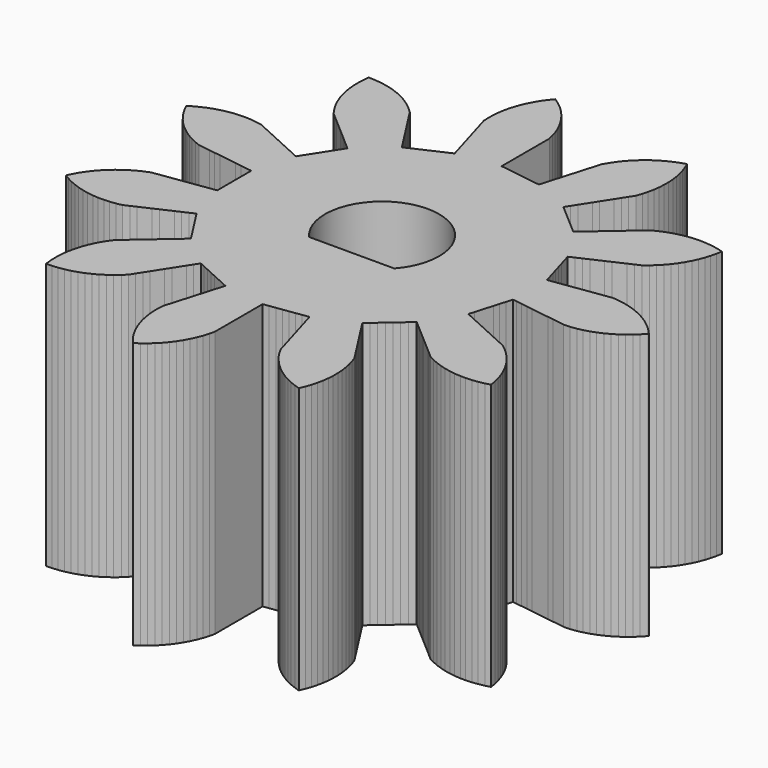
from build123d import *

# Parameters (mm, degrees)
F1_DEPTH = 7


with BuildPart() as f1:
    # F0 (on Top) → F1 (new body)
    with BuildSketch(Plane.XY):
        Polygon((2.781297, -0.574839), (2.785894, -0.559184), (2.889548, -0.574087), (3.045029, -0.596442), (3.200509, -0.618797), (3.35599, -0.641151), (3.511471, -0.663506), (3.666952, -0.685861), (3.822433, -0.708216), (3.977913, -0.73057), (4.133394, -0.752925), (4.288875, -0.77528), (4.460654, -0.772542), (4.616273, -0.748697), (4.756618, -0.719001), (4.90763, -0.674487), (5.04272, -0.626225), (5.186392, -0.561848), (5.313783, -0.495894), (5.447516, -0.412818), (5.564904, -0.330364), (5.686278, -0.230093), (5.791538, -0.132631), (5.898358, -0.016978), (5.91404, 0), (5.80722, 0.115653), (5.704096, 0.215372), (5.582722, 0.315644), (5.467148, 0.400622), (5.333416, 0.483698), (5.207483, 0.552397), (5.063812, 0.616774), (4.929799, 0.667952), (4.778787, 0.712466), (4.639119, 0.745196), (4.483499, 0.769041), (4.340702, 0.782732), (4.185221, 0.760377), (4.02974, 0.738022), (3.87426, 0.715667), (3.718779, 0.693313), (3.563298, 0.670958), (3.407817, 0.648603), (3.252336, 0.626248), (3.096856, 0.603894), (2.941375, 0.581539), (2.785894, 0.559184), (2.741539, 0.710243), (2.697184, 0.861301), (2.65283, 1.01236), (2.608475, 1.163419), (2.56412, 1.314477), (2.519765, 1.465536), (2.47541, 1.616595), (2.470813, 1.63225), (2.613698, 1.697503), (2.756583, 1.762757), (2.899467, 1.82801), (3.042352, 1.893263), (3.185237, 1.958516), (3.328121, 2.02377), (3.471006, 2.089023), (3.613891, 2.154276), (3.756775, 2.219529), (3.89966, 2.284783), (4.02312, 2.382474), (4.130411, 2.477696), (4.239644, 2.591073), (4.333185, 2.699831), (4.426215, 2.826842), (4.504315, 2.94717), (4.579458, 3.085516), (4.640703, 3.215237), (4.6966, 3.362415), (4.739883, 3.499182), (4.775523, 3.652531), (4.800059, 3.793869), (4.64767, 3.833411), (4.507004, 3.861548), (4.350687, 3.880282), (4.207518, 3.889286), (4.147325, 3.889984), (3.990029, 3.883334), (3.847276, 3.869195), (3.692295, 3.841496), (3.552731, 3.808328), (3.40287, 3.760081), (3.269018, 3.708483), (3.126988, 3.640561), (2.998181, 3.550036), (2.87757, 3.448848), (2.758332, 3.346044), (2.639311, 3.242991), (2.520323, 3.139899), (2.40134, 3.036801), (2.282358, 2.933703), (2.163375, 2.830604), (2.044393, 2.727506), (1.925411, 2.624407), (1.866178, 2.573081), (1.747196, 2.67618), (1.628214, 2.779278), (1.509232, 2.882377), (1.390249, 2.985476), (1.271267, 3.088574), (1.152285, 3.191673), (1.033303, 3.294772), (1.020972, 3.305456), (1.105896, 3.4376), (1.190819, 3.569744), (1.275743, 3.701888), (1.360667, 3.834032), (1.44559, 3.966175), (1.530514, 4.098319), (1.615438, 4.230463), (1.700361, 4.362607), (1.785285, 4.494751), (1.870208, 4.626894), (1.921254, 4.775826), (1.960032, 4.913937), (1.990628, 5.068371), (2.010521, 5.210437), (2.020115, 5.367581), (2.020763, 5.511031), (2.009182, 5.668041), (1.990572, 5.81028), (1.958025, 5.964315), (1.920495, 6.102771), (1.86757, 6.251045), (1.811799, 6.383211), (1.662223, 6.334089), (1.528676, 6.281709), (1.387045, 6.212957), (1.261735, 6.143129), (1.130612, 6.055992), (1.015807, 5.969979), (0.897564, 5.866034), (0.79534, 5.765392), (0.692116, 5.646518), (0.604324, 5.533068), (0.517986, 5.401417), (0.446213, 5.277211), (0.401959, 5.126495), (0.357704, 4.975778), (0.31345, 4.825061), (0.269195, 4.674344), (0.224941, 4.523627), (0.180686, 4.372911), (0.136432, 4.222194), (0.092177, 4.071477), (0.047923, 3.92076), (0.003669, 3.770043), (-0.152165, 3.792449), (-0.307998, 3.814854), (-0.463832, 3.83726), (-0.619665, 3.859665), (-0.775499, 3.882071), (-0.931332, 3.904476), (-1.087166, 3.926882), (-1.103316, 3.929204), (-1.103316, 4.086283), (-1.103316, 4.243363), (-1.103316, 4.400443), (-1.103316, 4.557522), (-1.103316, 4.714602), (-1.103316, 4.871681), (-1.103316, 5.028761), (-1.103316, 5.185841), (-1.103316, 5.34292), (-1.103316, 5.5), (-1.140892, 5.652886), (-1.182939, 5.790038), (-1.240693, 5.936498), (-1.300765, 6.066766), (-1.377651, 6.204151), (-1.454662, 6.325179), (-1.54929, 6.451002), (-1.641846, 6.560601), (-1.752504, 6.672587), (-1.858932, 6.768773), (-1.983617, 6.864896), (-2.10199, 6.945929), (-2.201264, 6.823738), (-2.285292, 6.707472), (-2.36727, 6.573063), (-2.434935, 6.446572), (-2.498133, 6.302378), (-2.548211, 6.16795), (-2.591486, 6.016579), (-2.623071, 5.876647), (-2.645641, 5.720837), (-2.658161, 5.577933), (-2.659616, 5.420503), (-2.652845, 5.277211), (-2.608591, 5.126495), (-2.564336, 4.975778), (-2.520082, 4.825061), (-2.475827, 4.674344), (-2.431573, 4.523627), (-2.387318, 4.372911), (-2.343064, 4.222194), (-2.298809, 4.071477), (-2.254555, 3.92076), (-2.210301, 3.770043), (-2.353509, 3.704642), (-2.496718, 3.639241), (-2.639927, 3.57384), (-2.783136, 3.508438), (-2.926345, 3.443037), (-3.069553, 3.377636), (-3.212762, 3.312235), (-3.227604, 3.305456), (-3.312528, 3.4376), (-3.397451, 3.569744), (-3.482375, 3.701888), (-3.567299, 3.834032), (-3.652222, 3.966175), (-3.737146, 4.098319), (-3.82207, 4.230463), (-3.906993, 4.362607), (-3.991917, 4.494751), (-4.07684, 4.626894), (-4.191108, 4.735195), (-4.30063, 4.827842), (-4.428398, 4.919828), (-4.549362, 4.99694), (-4.688319, 5.070947), (-4.818537, 5.131127), (-4.966169, 5.185817), (-5.103285, 5.227977), (-5.256921, 5.26236), (-5.398455, 5.285738), (-5.555315, 5.299191), (-5.698707, 5.303364), (-5.716159, 5.146898), (-5.72399, 5.00366), (-5.720288, 4.846267), (-5.708825, 4.703274), (-5.684033, 4.547802), (-5.653485, 4.407641), (-5.608053, 4.256903), (-5.55897, 4.122109), (-5.49372, 3.978831), (-5.426993, 3.851843), (-5.343105, 3.718618), (-5.259939, 3.601734), (-5.141226, 3.498869), (-5.022513, 3.396003), (-4.9038, 3.293138), (-4.785087, 3.190273), (-4.666374, 3.087408), (-4.547661, 2.984542), (-4.428949, 2.881677), (-4.310236, 2.778812), (-4.191523, 2.675946), (-4.07281, 2.573081), (-4.157926, 2.440638), (-4.243043, 2.308194), (-4.328159, 2.175751), (-4.413275, 2.043307), (-4.498392, 1.910863), (-4.583508, 1.77842), (-4.668624, 1.645976), (-4.677445, 1.63225), (-4.82033, 1.697503), (-4.963215, 1.762757), (-5.106099, 1.82801), (-5.248984, 1.893263), (-5.391869, 1.958516), (-5.534753, 2.02377), (-5.677638, 2.089023), (-5.820523, 2.154276), (-5.963407, 2.219529), (-6.106292, 2.284783), (-6.260972, 2.314113), (-6.403196, 2.332841), (-6.560413, 2.341148), (-6.583493, 2.342367), (-6.740867, 2.337963), (-6.883808, 2.325864), (-7.039168, 2.30038), (-7.179192, 2.269208), (-7.329726, 2.223105), (-7.4643, 2.173423), (-7.607286, 2.107535), (-7.733975, 2.040242), (-7.83642, 1.977018), (-7.76651, 1.835955), (-7.695657, 1.711221), (-7.60745, 1.580816), (-7.520499, 1.46672), (-7.415588, 1.349332), (-7.314112, 1.247937), (-7.194397, 1.14569), (-7.080231, 1.05883), (-6.947878, 0.973574), (-6.823088, 0.902821), (-6.68049, 0.836098), (-6.547334, 0.782732), (-6.391853, 0.760377), (-6.236372, 0.738022), (-6.080892, 0.715667), (-5.925411, 0.693313), (-5.76993, 0.670958), (-5.614449, 0.648603), (-5.458968, 0.626248), (-5.303488, 0.603894), (-5.148007, 0.581539), (-4.992526, 0.559184), (-4.992526, 0.401748), (-4.992526, 0.244312), (-4.992526, 0.086876), (-4.992526, -0.07056), (-4.992526, -0.227996), (-4.992526, -0.385432), (-4.992526, -0.542868), (-4.992526, -0.559184), (-5.148007, -0.581539), (-5.303488, -0.603894), (-5.458968, -0.626248), (-5.614449, -0.648603), (-5.76993, -0.670958), (-5.925411, -0.693313), (-6.080892, -0.715667), (-6.236372, -0.738022), (-6.391853, -0.760377), (-6.547334, -0.782732), (-6.693316, -0.841684), (-6.823088, -0.902821), (-6.959838, -0.98083), (-7.080231, -1.05883), (-7.205275, -1.154486), (-7.314112, -1.247937), (-7.425188, -1.359508), (-7.520499, -1.46672), (-7.615597, -1.592189), (-7.695657, -1.711221), (-7.773057, -1.848318), (-7.83642, -1.977018), (-7.701344, -2.057891), (-7.574303, -2.124518), (-7.429595, -2.186533), (-7.294762, -2.235508), (-7.143041, -2.277542), (-7.002856, -2.307979), (-6.846866, -2.329271), (-6.703864, -2.34062), (-6.546428, -2.340786), (-6.403196, -2.332841), (-6.247162, -2.311878), (-6.106292, -2.284783), (-5.963407, -2.219529), (-5.820523, -2.154276), (-5.677638, -2.089023), (-5.534753, -2.02377), (-5.391869, -1.958516), (-5.248984, -1.893263), (-5.106099, -1.82801), (-4.963215, -1.762757), (-4.82033, -1.697503), (-4.677445, -1.63225), (-4.592329, -1.764694), (-4.507213, -1.897137), (-4.422096, -2.029581), (-4.33698, -2.162024), (-4.251864, -2.294468), (-4.166748, -2.426912), (-4.081631, -2.559355), (-4.07281, -2.573081), (-4.191523, -2.675946), (-4.310236, -2.778812), (-4.428949, -2.881677), (-4.547661, -2.984542), (-4.666374, -3.087408), (-4.785087, -3.190273), (-4.9038, -3.293138), (-5.022513, -3.396003), (-5.141226, -3.498869), (-5.259939, -3.601734), (-5.350875, -3.730251), (-5.426993, -3.851843), (-5.499859, -3.991402), (-5.55897, -4.122109), (-5.612449, -4.270183), (-5.653485, -4.407641), (-5.686607, -4.561553), (-5.708825, -4.703274), (-5.720993, -4.860239), (-5.72399, -5.00366), (-5.714983, -5.160838), (-5.698707, -5.303364), (-5.54135, -5.298371), (-5.398455, -5.285738), (-5.243192, -5.259673), (-5.103285, -5.227977), (-4.952924, -5.181312), (-4.818537, -5.131127), (-4.675799, -5.064705), (-4.549362, -4.99694), (-4.416828, -4.911963), (-4.30063, -4.827842), (-4.180699, -4.725848), (-4.07684, -4.626894), (-3.991917, -4.494751), (-3.906993, -4.362607), (-3.82207, -4.230463), (-3.737146, -4.098319), (-3.652222, -3.966175), (-3.567299, -3.834032), (-3.482375, -3.701888), (-3.397451, -3.569744), (-3.312528, -3.4376), (-3.227604, -3.305456), (-3.084395, -3.370858), (-2.941186, -3.436259), (-2.797978, -3.50166), (-2.654769, -3.567062), (-2.51156, -3.632463), (-2.368351, -3.697864), (-2.225142, -3.763265), (-2.210301, -3.770043), (-2.254555, -3.92076), (-2.298809, -4.071477), (-2.343064, -4.222194), (-2.387318, -4.372911), (-2.431573, -4.523627), (-2.475827, -4.674344), (-2.520082, -4.825061), (-2.564336, -4.975778), (-2.608591, -5.126495), (-2.652845, -5.277211), (-2.659864, -5.434491), (-2.658161, -5.577933), (-2.644009, -5.734731), (-2.623071, -5.876647), (-2.588004, -6.030128), (-2.548211, -6.16795), (-2.492864, -6.315337), (-2.434935, -6.446572), (-2.360309, -6.585198), (-2.285292, -6.707472), (-2.192738, -6.834829), (-2.10199, -6.945929), (-1.972312, -6.856656), (-1.858932, -6.768773), (-1.742407, -6.662905), (-1.641846, -6.560601), (-1.540584, -6.440052), (-1.454662, -6.325179), (-1.370493, -6.192131), (-1.300765, -6.066766), (-1.235212, -5.923626), (-1.182939, -5.790038), (-1.137189, -5.639396), (-1.103316, -5.5), (-1.103316, -5.34292), (-1.103316, -5.185841), (-1.103316, -5.028761), (-1.103316, -4.871681), (-1.103316, -4.714602), (-1.103316, -4.557522), (-1.103316, -4.400443), (-1.103316, -4.243363), (-1.103316, -4.086283), (-1.103316, -3.929204), (-0.947483, -3.906798), (-0.791649, -3.884393), (-0.635816, -3.861987), (-0.479982, -3.839582), (-0.324149, -3.817176), (-0.168315, -3.794771), (-0.012482, -3.772365), (0.003669, -3.770043), (0.047923, -3.92076), (0.092177, -4.071477), (0.136432, -4.222194), (0.180686, -4.372911), (0.224941, -4.523627), (0.269195, -4.674344), (0.31345, -4.825061), (0.357704, -4.975778), (0.401959, -5.126495), (0.446213, -5.277211), (0.52534, -5.413318), (0.604324, -5.533068), (0.701001, -5.657324), (0.79534, -5.765392), (0.907818, -5.87555), (1.015807, -5.969979), (1.142051, -6.064046), (1.261735, -6.143129), (1.399461, -6.219403), (1.528676, -6.281709), (1.675391, -6.33881), (1.811799, -6.383211), (1.872626, -6.238001), (1.920495, -6.102771), (1.961284, -5.950711), (1.990572, -5.81028), (2.010586, -5.654122), (2.020763, -5.511031), (2.019639, -5.353599), (2.010521, -5.210437), (1.98828, -5.05458), (1.960032, -4.913937), (1.917076, -4.762475), (1.870208, -4.626894), (1.785285, -4.494751), (1.700361, -4.362607), (1.615438, -4.230463), (1.530514, -4.098319), (1.44559, -3.966175), (1.360667, -3.834032), (1.275743, -3.701888), (1.190819, -3.569744), (1.105896, -3.4376), (1.020972, -3.305456), (1.139954, -3.202358), (1.258936, -3.099259), (1.377918, -2.996161), (1.496901, -2.893062), (1.615883, -2.789963), (1.734865, -2.686865), (1.853847, -2.583766), (1.866178, -2.573081), (1.984891, -2.675946), (2.103604, -2.778812), (2.222317, -2.881677), (2.341029, -2.984542), (2.459742, -3.087408), (2.578455, -3.190273), (2.697168, -3.293138), (2.815881, -3.396003), (2.934594, -3.498869), (3.053307, -3.601734), (3.193457, -3.673455), (3.324644, -3.731493), (3.473152, -3.783757), (3.610941, -3.823665), (3.76512, -3.855526), (3.907018, -3.876582), (4.064077, -3.887463), (4.207518, -3.889286), (4.364617, -3.878991), (4.507004, -3.861548), (4.661301, -3.830264), (4.800059, -3.793869), (4.772724, -3.638824), (4.739883, -3.499182), (4.691987, -3.349208), (4.640703, -3.215237), (4.573114, -3.073047), (4.504315, -2.94717), (4.418255, -2.815337), (4.333185, -2.699831), (4.230212, -2.58074), (4.130411, -2.477696), (4.012387, -2.373502), (3.89966, -2.284783), (3.756775, -2.219529), (3.613891, -2.154276), (3.471006, -2.089023), (3.328121, -2.02377), (3.185237, -1.958516), (3.042352, -1.893263), (2.899467, -1.82801), (2.756583, -1.762757), (2.613698, -1.697503), (2.470813, -1.63225), (2.515168, -1.481192), (2.559523, -1.330133), (2.603878, -1.179074), (2.648233, -1.028015), (2.692588, -0.876957), (2.736942, -0.725898), align=None)
        with BuildLine():
            ThreePointArc((-2.2213499887, -1), (-1.6385491347, 1.4012585384), (0.396684, 0))
            ThreePointArc((0.396684, 0), (0.2979425384, -0.5352331347), (0.0147179887, -1))
            ThreePointArc((0.0147179887, -1), (-1.103316, -1.5), (-2.2213499887, -1))
        make_face(mode=Mode.SUBTRACT)
        with BuildLine():
            Line((0.0147179887, -1), (-2.2213499887, -1))
            ThreePointArc((-2.2213499887, -1), (-1.103316, -1.5), (0.0147179887, -1))
        make_face()
    extrude(amount=F1_DEPTH)


solid = f1.part
